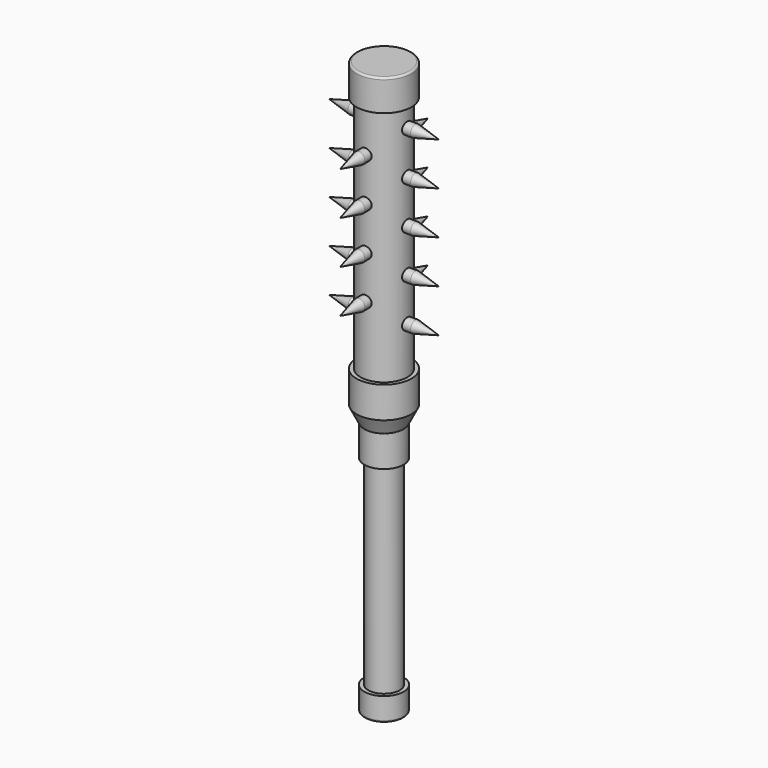
from build123d import *

# Parameters (mm, degrees)
F0_R     = 12.7
F0_R_2   = 9.525
F1_DEPTH = 203.2


with BuildPart() as f1:
    # F0 (on Top) → F1 (new body)
    with BuildSketch(Plane.XY):
        Circle(F0_R)
        Circle(F0_R_2, mode=Mode.SUBTRACT)
    extrude(amount=F1_DEPTH)

    # F2 (on Front) → F3 (revolve)
    with BuildSketch(Plane.XZ):
        Polygon((15.875, 215.9), (19.05, 215.9), (19.05, 241.3), (19.05, 457.2), (15.875, 457.2), align=None)
        Polygon((12.7, 203.2), (12.7, 177.8), (15.875, 177.8), (15.875, 203.2), (22.225, 215.9), (22.225, 241.3), (19.05, 241.3), (19.05, 215.9), align=None)
    revolve(axis=Axis((0, 0, 317.5), (0, 0, 1)))

    # F4 (on Front) → F5 (revolve)
    with BuildSketch(Plane.XZ):
        with BuildLine():
            Line((0, 460.375), (0, 457.2))
            Line((0, 457.2), (19.05, 457.2))
            Line((19.05, 457.2), (19.05, 434.975))
            Line((19.05, 434.975), (22.225, 434.975))
            Line((22.225, 434.975), (22.225, 458.7875))
            ThreePointArc((22.225, 458.7875), (21.760032, 459.910032), (20.6375, 460.375))
            Line((20.6375, 460.375), (0, 460.375))
        make_face()
        with BuildLine():
            Line((12.7, 0), (0, 0))
            Line((0, 0), (0, -3.175))
            Line((0, -3.175), (14.2875, -3.175))
            ThreePointArc((14.2875, -3.175), (15.410032, -2.710032), (15.875, -1.5875))
            Line((15.875, -1.5875), (15.875, 15.875))
            Line((15.875, 15.875), (12.7, 15.875))
            Line((12.7, 15.875), (12.7, 0))
        make_face()
    revolve(axis=Axis((0, 0, -1.5875), (0, 0, -1)))

    # F6 (on Front) → F8 (revolve)
    with BuildSketch(Plane.XZ):
        Polygon((44.45, 419.1), (25.4, 423.8625), (-25.4, 423.8625), (-44.45, 419.1), align=None)
    revolve(axis=Axis((0, 0, 419.1), (-1, 0, 0)))

    # F6 (on Front) → F9 (revolve)
    with BuildSketch(Plane.XZ):
        Polygon((44.45, 384.175), (25.4, 388.9375), (-25.4, 388.9375), (-44.45, 384.175), align=None)
    revolve(axis=Axis((0, 0, 384.175), (-1, 0, 0)))

    # F7 (on Right) → F10 (revolve)
    with BuildSketch(Plane.YZ):
        Polygon((44.45, 401.6375), (25.4, 406.4), (-25.4, 406.4), (-44.45, 401.6375), align=None)
    revolve(axis=Axis((0, 0, 401.6375), (0, -1, 0)))

    # F7 (on Right) → F11 (revolve)
    with BuildSketch(Plane.YZ):
        Polygon((44.45, 366.7125), (25.4, 371.475), (-25.4, 371.475), (-44.45, 366.7125), align=None)
    revolve(axis=Axis((0, 0, 366.7125), (0, -1, 0)))

    # F6 (on Front) → F12 (revolve)
    with BuildSketch(Plane.XZ):
        Polygon((44.45, 349.25), (25.4, 354.0125), (-25.4, 354.0125), (-44.45, 349.25), align=None)
    revolve(axis=Axis((0, 0, 349.25), (-1, 0, 0)))

    # F6 (on Front) → F13 (revolve)
    with BuildSketch(Plane.XZ):
        Polygon((44.45, 314.325), (25.4, 319.0875), (-25.4, 319.0875), (-44.45, 314.325), align=None)
    revolve(axis=Axis((0, 0, 314.325), (-1, 0, 0)))

    # F7 (on Right) → F14 (revolve)
    with BuildSketch(Plane.YZ):
        Polygon((44.45, 331.7875), (25.4, 336.55), (-25.4, 336.55), (-44.45, 331.7875), align=None)
    revolve(axis=Axis((0, 0, 331.7875), (0, -1, 0)))

    # F7 (on Right) → F15 (revolve)
    with BuildSketch(Plane.YZ):
        Polygon((44.45, 296.8625), (25.4, 301.625), (-25.4, 301.625), (-44.45, 296.8625), align=None)
    revolve(axis=Axis((0, 0, 296.8625), (0, -1, 0)))

    # F6 (on Front) → F16 (revolve)
    with BuildSketch(Plane.XZ):
        Polygon((44.45, 279.4), (25.4, 284.1625), (-25.4, 284.1625), (-44.45, 279.4), align=None)
    revolve(axis=Axis((0, 0, 279.4), (-1, 0, 0)))


solid = f1.part
